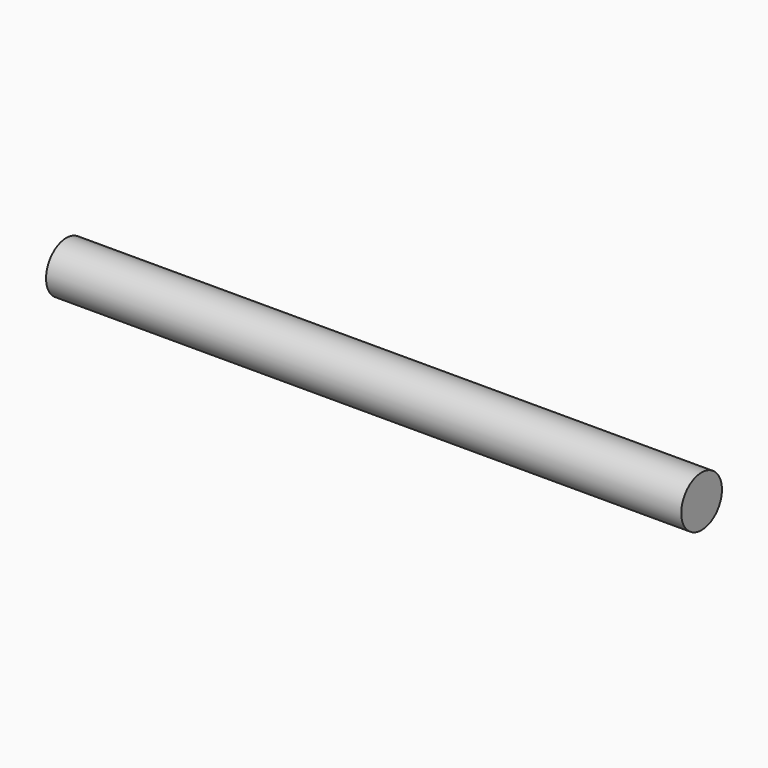
from build123d import *

# Parameters (mm, degrees)
SKETCH_R  = 4
PAD_DEPTH = 50


with BuildPart() as part:
    # Sketch → Pad (new body, symmetric)
    with BuildSketch(Plane.YZ):
        Circle(SKETCH_R)
    extrude(amount=PAD_DEPTH, both=True)


solid = part.part
